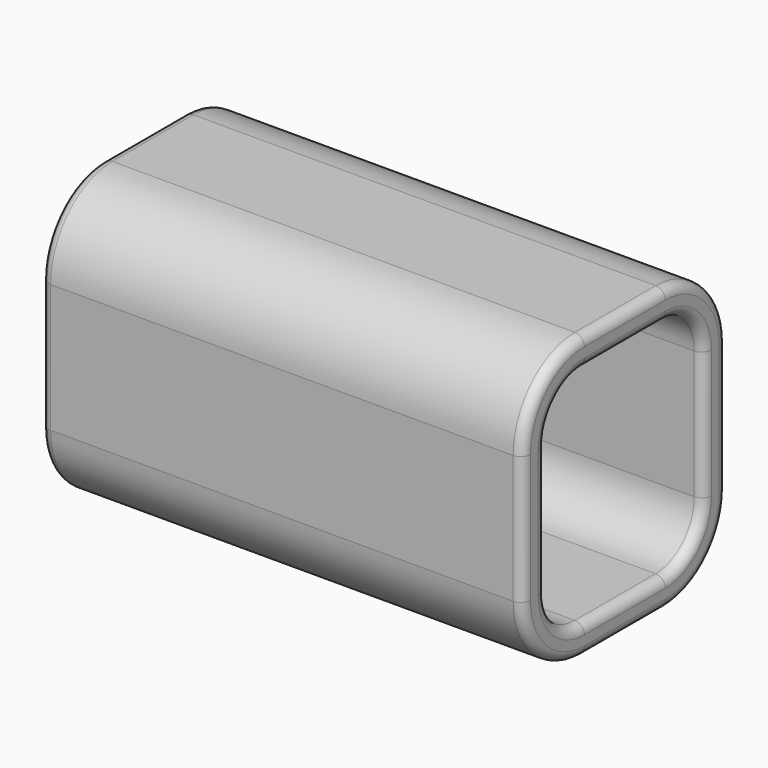
from build123d import *

# Parameters (mm, degrees)
F1_DEPTH = 254
F2_R     = 5.08


with BuildPart() as f1:
    # F0 (on Right) → F1 (new body)
    with BuildSketch(Plane.YZ):
        with BuildLine():
            Line((72.400342, -31.400991), (72.400342, 36.261361))
            ThreePointArc((72.400342, 36.261361), (60.497162, 64.99818), (31.760342, 76.901361))
            Line((31.760342, 76.901361), (-21.520933, 76.901361))
            ThreePointArc((-21.520933, 76.901361), (-50.257752, 64.99818), (-62.160933, 36.261361))
            Line((-62.160933, 36.261361), (-62.160933, -31.400991))
            ThreePointArc((-62.160933, -31.400991), (-50.257752, -60.137811), (-21.520933, -72.040991))
            Line((-21.520933, -72.040991), (31.760342, -72.040991))
            ThreePointArc((31.760342, -72.040991), (60.497162, -60.137811), (72.400342, -31.400991))
        make_face()
        with BuildLine():
            ThreePointArc((-46.920933, 36.261361), (-39.481445, 54.221873), (-21.520933, 61.661361))
            Line((-21.520933, 61.661361), (31.760342, 61.661361))
            ThreePointArc((31.760342, 61.661361), (49.720854, 54.221873), (57.160342, 36.261361))
            Line((57.160342, 36.261361), (57.160342, -31.400991))
            ThreePointArc((57.160342, -31.400991), (49.720854, -49.361504), (31.760342, -56.800991))
            Line((31.760342, -56.800991), (-21.520933, -56.800991))
            ThreePointArc((-21.520933, -56.800991), (-39.481445, -49.361504), (-46.920933, -31.400991))
            Line((-46.920933, -31.400991), (-46.920933, 36.261361))
        make_face(mode=Mode.SUBTRACT)
    extrude(amount=F1_DEPTH)

    # F2
    f2_edges = [f1.edges().sort_by_distance(p)[0] for p in [
        (254, 5.119705, 61.661361),
        (254, 5.119705, 76.901361),
        (254, 60.497162, 64.99818),
        (254, 49.720854, 54.221873),
        (254, 57.160342, 2.430185),
        (254, 60.497162, -60.137811),
        (254, 49.720854, -49.361504),
        (254, 72.400342, 2.430185),
        (254, 5.119705, -56.800991),
        (254, 5.119705, -72.040991),
        (254, -39.481445, -49.361504),
        (254, -50.257752, -60.137811),
        (254, -62.160933, 2.430185),
        (254, -46.920933, 2.430185),
        (254, -50.257752, 64.99818),
        (254, -39.481445, 54.221873),
        (0, 72.400342, 2.430185),
        (0, 57.160342, 2.430185),
        (0, 60.497162, 64.99818),
        (0, 5.119705, 61.661361),
        (0, 49.720854, 54.221873),
        (0, 5.119705, 76.901361),
        (0, -50.257752, 64.99818),
        (0, -39.481445, 54.221873),
        (0, -46.920933, 2.430185),
        (0, -62.160933, 2.430185),
        (0, -50.257752, -60.137811),
        (0, -39.481445, -49.361504),
        (0, 5.119705, -72.040991),
        (0, 5.119705, -56.800991),
        (0, 60.497162, -60.137811),
        (0, 49.720854, -49.361504),
    ]]
    fillet(f2_edges, radius=F2_R)


solid = f1.part
